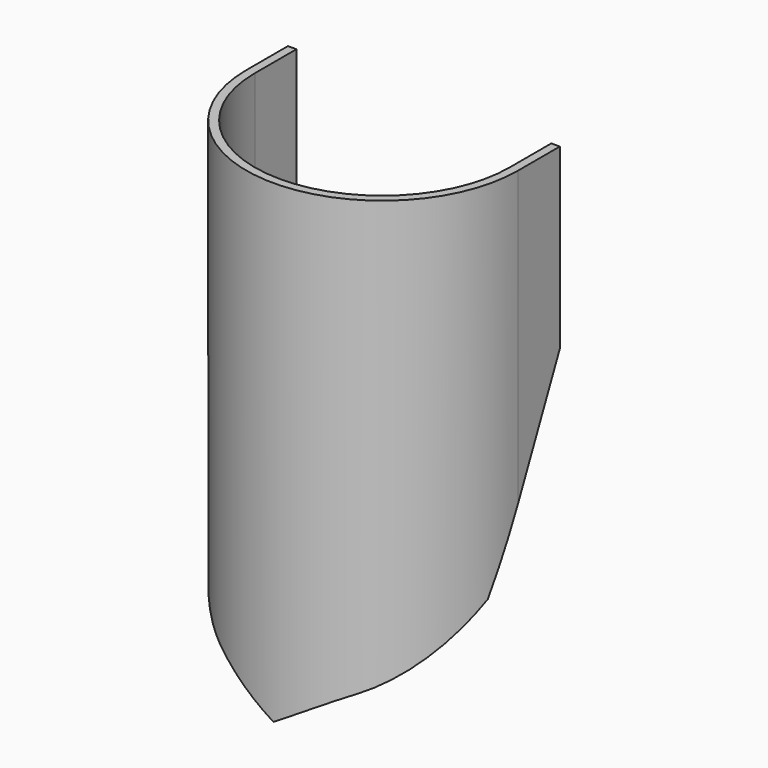
from build123d import *

# Parameters (mm, degrees)
F1_DEPTH = 270
F3_DEPTH = 250


with BuildPart() as f1:
    # F0 (on Top) → F1 (new body, symmetric)
    with BuildSketch(Plane.XY):
        with BuildLine():
            Line((79.9999999672, 79.9977099118), (80.0017351981, 140.6147968648))
            Line((80.0017351981, 140.6147968648), (75.0017352002, 140.6149399953))
            Line((75.0017352002, 140.6149399953), (74.9999999686, 79.9978290345))
            ThreePointArc((74.9999999686, 79.9978290345), (-0.0021469583, 4.9999760229), (-74.99999997, 80.0021229498))
            Line((-74.99999997, 80.0021229498), (-74.9982647384, 140.6192339106))
            Line((-74.9982647384, 140.6192339106), (-79.9982647363, 140.6193770411))
            Line((-79.9982647363, 140.6193770411), (-79.9999999672, 80.0022900882))
            ThreePointArc((-79.9999999672, 80.0022900882), (-0.0022900882, 3.28e-08), (79.9999999672, 79.9977099118))
        make_face()
    extrude(amount=F1_DEPTH, both=True)

    # F2 (on Right) → F3 (cut, symmetric)
    with BuildSketch(Plane.YZ):
        with BuildLine():
            Line((140.6193770411, -270), (140.6193770411, 270))
            Line((140.6193770411, 270), (0, 270))
            Line((0, 270), (0, 219.99933))
            Line((0, 219.99933), (110.6193770411, 219.99933))
            Line((110.6193770411, 219.99933), (110.6193770411, 115.1882235752))
            Line((110.6193770411, 115.1882235752), (60.6193770411, 5))
            Line((60.6193770411, 5), (10.9110071197, -36.0003965298))
            ThreePointArc((10.9110071197, -36.0003965298), (2.8645086058, -46.3504872547), (0, -59.1436536647))
            Line((0, -59.1436536647), (0, -270))
            Line((0, -270), (140.6193770411, -270))
        make_face()
    extrude(amount=F3_DEPTH, both=True, mode=Mode.SUBTRACT)


solid = f1.part
